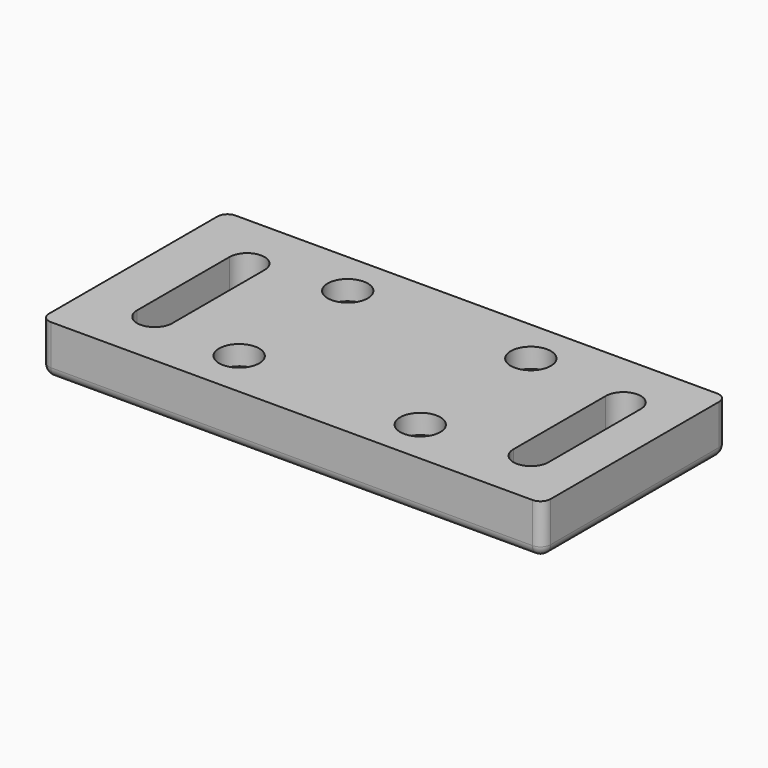
from build123d import *

# Parameters (mm, degrees)
SKETCH_W         = 100
SKETCH_H         = 46
PAD_DEPTH        = 10
HOLE_D           = 3.9
HOLE_CBORE_D     = 8
HOLE_CBORE_DEPTH = 3.9
FILLET_R         = 2
FILLET001_R      = 2
FILLET002_R      = 2
FILLET003_R      = 2


with BuildPart() as part:
    # Sketch → Pad (new body)
    with BuildSketch(Plane.XY):
        Rectangle(SKETCH_W, SKETCH_H)
        with BuildLine():
            ThreePointArc((42, 11.5), (38.5, 15), (35, 11.5))
            Line((35, 11.5), (35, -11.5))
            ThreePointArc((35, -11.5), (38.5, -15), (42, -11.5))
            Line((42, -11.5), (42, 11.5))
        make_face(mode=Mode.SUBTRACT)
        with BuildLine():
            ThreePointArc((-33, 11.5), (-36.5, 15), (-40, 11.5))
            Line((-40, 11.5), (-40, -11.5))
            ThreePointArc((-40, -11.5), (-36.5, -15), (-33, -11.5))
            Line((-33, -11.5), (-33, 11.5))
        make_face(mode=Mode.SUBTRACT)
    extrude(amount=PAD_DEPTH)

    # Hole (through all)
    with Locations(Plane.XY.offset(10)):
        with Locations((-18.5, 14.085), (18, 14.085), (-18, -13.585), (18.5, -14.085)):
            CounterBoreHole(HOLE_D / 2, HOLE_CBORE_D / 2, HOLE_CBORE_DEPTH)

    # Fillet
    fillet_edges = [part.edges().sort_by_distance(p)[0] for p in [
        (-50, 0, 0),
    ]]
    fillet(fillet_edges, radius=FILLET_R)

    # Fillet001
    fillet001_edges = [part.edges().sort_by_distance(p)[0] for p in [
        (1, 23, 0),
    ]]
    fillet(fillet001_edges, radius=FILLET001_R)

    # Fillet002
    fillet002_edges = [part.edges().sort_by_distance(p)[0] for p in [
        (50, -1, 0),
    ]]
    fillet(fillet002_edges, radius=FILLET002_R)

    # Fillet003
    fillet003_edges = [part.edges().sort_by_distance(p)[0] for p in [
        (0, -23, 0),
    ]]
    fillet(fillet003_edges, radius=FILLET003_R)


solid = part.part
